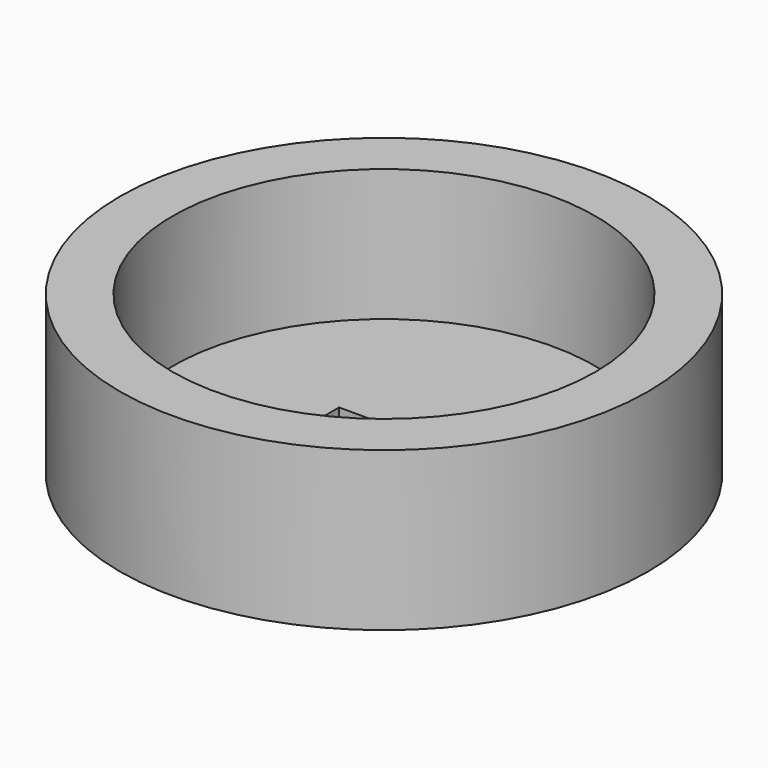
from build123d import *

# Parameters (mm, degrees)
F0_R     = 10
F0_R_2   = 8
F1_DEPTH = 6
F2_R     = 10
F2_W     = 0.8
F2_H     = 2
F2_W_2   = 5
F3_DEPTH = 1
F4_DEPTH = 1.5


with BuildPart() as f1:
    # F0 (on Top) → F1 (new body)
    with BuildSketch(Plane.XY):
        Circle(F0_R)
        Circle(F0_R_2, mode=Mode.SUBTRACT)
    extrude(amount=F1_DEPTH)

    # F2 (on Top) → F3 (join)
    with BuildSketch(Plane.XY):
        Circle(F2_R)
        with Locations((-9, 0)):
            Rectangle(F2_W, F2_H, mode=Mode.SUBTRACT)
        Rectangle(F2_W_2, F2_H, mode=Mode.SUBTRACT)
        with Locations((9, 0)):
            Rectangle(F2_W, F2_H, mode=Mode.SUBTRACT)
    extrude(amount=F3_DEPTH)

    # F2 (on Top) → F4 (cut)
    with BuildSketch(Plane.XY):
        with Locations((9, 0)):
            Rectangle(F2_W, F2_H)
        with Locations((-9, 0)):
            Rectangle(F2_W, F2_H)
    extrude(amount=F4_DEPTH, mode=Mode.SUBTRACT)


solid = f1.part
